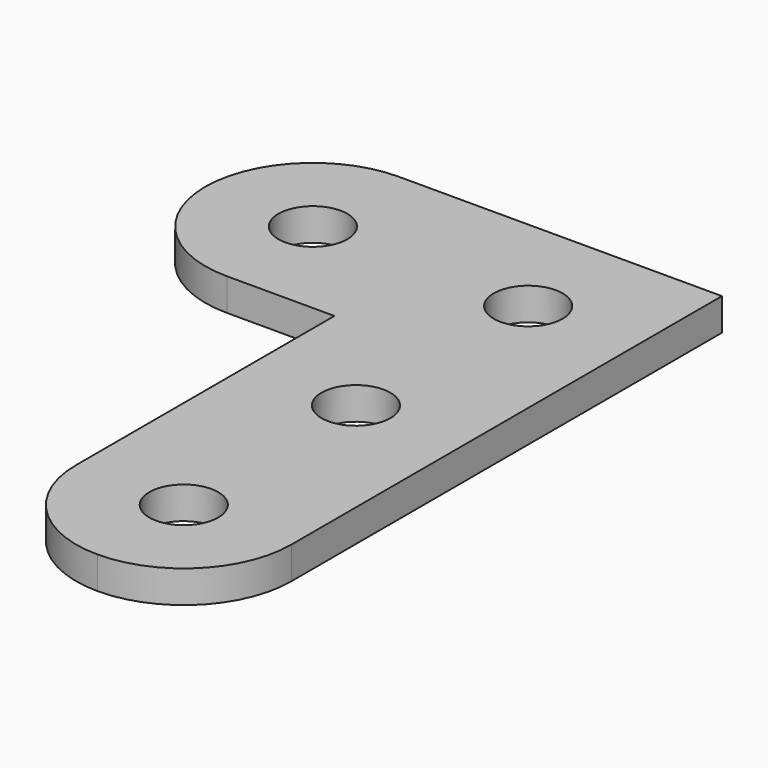
from build123d import *

# Parameters (mm, degrees)
F0_R     = 1.6
F1_DEPTH = 1.5


with BuildPart() as f1:
    # F0 (on Top) → F1 (new body)
    with BuildSketch(Plane.XY):
        with BuildLine():
            Line((-43.070649, 22.894378), (-58.070649, 22.894378))
            ThreePointArc((-58.070649, 22.894378), (-61.606183, 21.429912), (-63.070649, 17.894378))
            ThreePointArc((-63.070649, 17.894378), (-61.606183, 14.358844), (-58.070649, 12.894378))
            Line((-58.070649, 12.894378), (-53.070649, 12.894378))
            Line((-53.070649, 12.894378), (-43.070649, 12.894378))
            Line((-43.070649, 12.894378), (-43.070649, 22.894378))
        make_face()
        with Locations((-58.070649, 17.894378)):
            Circle(F0_R, mode=Mode.SUBTRACT)
        with Locations((-48.070649, 17.894378)):
            Circle(F0_R, mode=Mode.SUBTRACT)
        with BuildLine():
            Line((-43.070649, -2.105622), (-43.070649, 12.894378))
            Line((-43.070649, 12.894378), (-53.070649, 12.894378))
            Line((-53.070649, 12.894378), (-53.070649, -2.105622))
            ThreePointArc((-53.070649, -2.105622), (-51.606183, -5.641156), (-48.070649, -7.105622))
            ThreePointArc((-48.070649, -7.105622), (-44.535115, -5.641156), (-43.070649, -2.105622))
        make_face()
        with Locations((-48.070649, -2.105622)):
            Circle(F0_R, mode=Mode.SUBTRACT)
        with Locations((-48.070649, 7.894378)):
            Circle(F0_R, mode=Mode.SUBTRACT)
    extrude(amount=F1_DEPTH)


solid = f1.part
